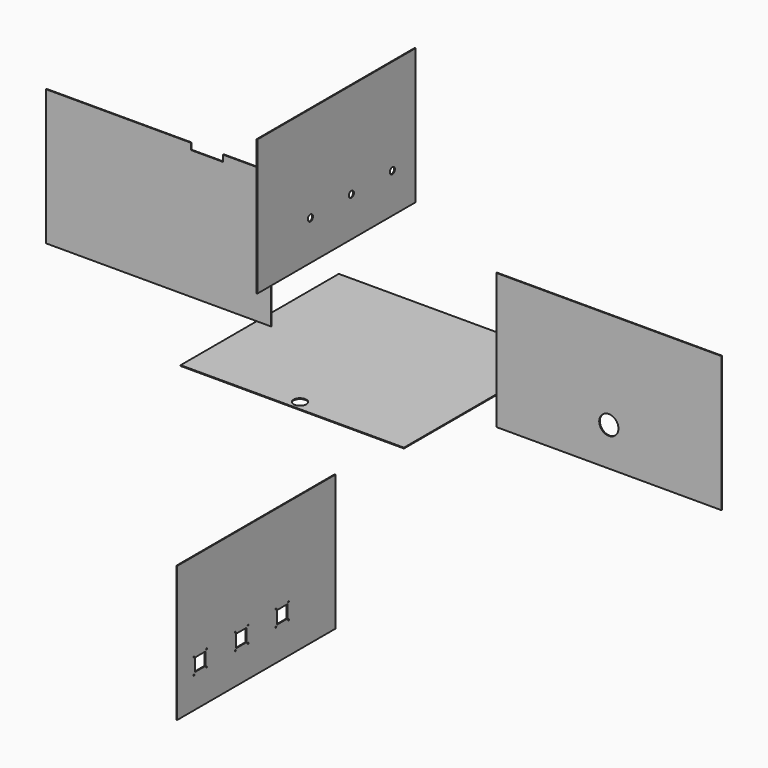
from build123d import *

# Parameters (mm, degrees)
F5_DEPTH = 6.35
F4_W     = 1784.35
F4_H     = 1076.325
F4_R     = 76.2
F6_DEPTH = 6.35
F1_W     = 1568.45
F1_H     = 1076.325
F1_R     = 25.4
F7_DEPTH = 6.35
F0_W     = 1771.65
F0_H     = 1568.45
F0_R     = 50.8
F8_DEPTH = 6.35
F2_W     = 1568.45
F2_H     = 1076.325
F2_R     = 4.7625
F2_W_2   = 101.6
F2_H_2   = 101.6
F9_DEPTH = 6.35


with BuildPart() as f5:
    # F3 (on Front) → F5 (new body)
    with BuildSketch(Plane.XZ):
        Polygon((-2353.053082, 1252.881341), (-2353.053082, 176.556341), (-568.703082, 176.556341), (-568.703082, 1252.881341), (-949.703082, 1252.881341), (-949.703082, 1202.081341), (-1203.703082, 1202.081341), (-1203.703082, 1252.881341), align=None)
    extrude(amount=F5_DEPTH)


with BuildPart() as f6:
    # F4 (on Front) → F6 (new body)
    with BuildSketch(Plane.XZ):
        with Locations((2111.729585, 593.551013)):
            Rectangle(F4_W, F4_H)
        with Locations((2111.729585, 360.188513)):
            Circle(F4_R, mode=Mode.SUBTRACT)
    extrude(amount=F6_DEPTH)


with BuildPart() as f7:
    # F1 (on Right) → F7 (new body)
    with BuildSketch(Plane.YZ):
        with Locations((-77.091645, 1478.329556)):
            Rectangle(F1_W, F1_H)
        with Locations((-334.266645, 1254.492056)):
            Circle(F1_R, mode=Mode.SUBTRACT)
        with Locations((72.133355, 1254.492056)):
            Circle(F1_R, mode=Mode.SUBTRACT)
        with Locations((478.533355, 1254.492056)):
            Circle(F1_R, mode=Mode.SUBTRACT)
    extrude(amount=F7_DEPTH)


with BuildPart() as f8:
    # F0 (on Top) → F8 (new body)
    with BuildSketch(Plane.XY):
        with Locations((0, 278.368673)):
            Rectangle(F0_W, F0_H)
        with Locations((0, -429.656327)):
            Circle(F0_R, mode=Mode.SUBTRACT)
    extrude(amount=F8_DEPTH)


with BuildPart() as f9:
    # F2 (on Right) → F9 (new body)
    with BuildSketch(Plane.YZ):
        with Locations((-870.985828, -1176.870885)):
            Rectangle(F2_W, F2_H)
        with Locations((-1490.110828, -1468.432214)):
            Circle(F2_R, mode=Mode.SUBTRACT)
        with Locations((-1363.110828, -1464.208385)):
            Circle(F2_R, mode=Mode.SUBTRACT)
        with Locations((-1078.948328, -1464.208385)):
            Circle(F2_R, mode=Mode.SUBTRACT)
        with Locations((-951.948328, -1464.208385)):
            Circle(F2_R, mode=Mode.SUBTRACT)
        with Locations((-1490.110828, -1341.432214)):
            Circle(F2_R, mode=Mode.SUBTRACT)
        with Locations((-1426.610828, -1400.708385)):
            Rectangle(F2_W_2, F2_H_2, mode=Mode.SUBTRACT)
        with Locations((-1363.110828, -1337.208385)):
            Circle(F2_R, mode=Mode.SUBTRACT)
        with Locations((-1078.948328, -1337.208385)):
            Circle(F2_R, mode=Mode.SUBTRACT)
        with Locations((-1020.210828, -1400.708385)):
            Rectangle(F2_W_2, F2_H_2, mode=Mode.SUBTRACT)
        with Locations((-951.948328, -1337.208385)):
            Circle(F2_R, mode=Mode.SUBTRACT)
        with Locations((-677.310828, -1464.208385)):
            Circle(F2_R, mode=Mode.SUBTRACT)
        with Locations((-550.310828, -1464.208385)):
            Circle(F2_R, mode=Mode.SUBTRACT)
        with Locations((-677.310828, -1337.208385)):
            Circle(F2_R, mode=Mode.SUBTRACT)
        with Locations((-613.810828, -1400.708385)):
            Rectangle(F2_W_2, F2_H_2, mode=Mode.SUBTRACT)
        with Locations((-550.310828, -1337.208385)):
            Circle(F2_R, mode=Mode.SUBTRACT)
    extrude(amount=F9_DEPTH)


solid = Compound([f5.part, f6.part, f7.part, f8.part, f9.part])
